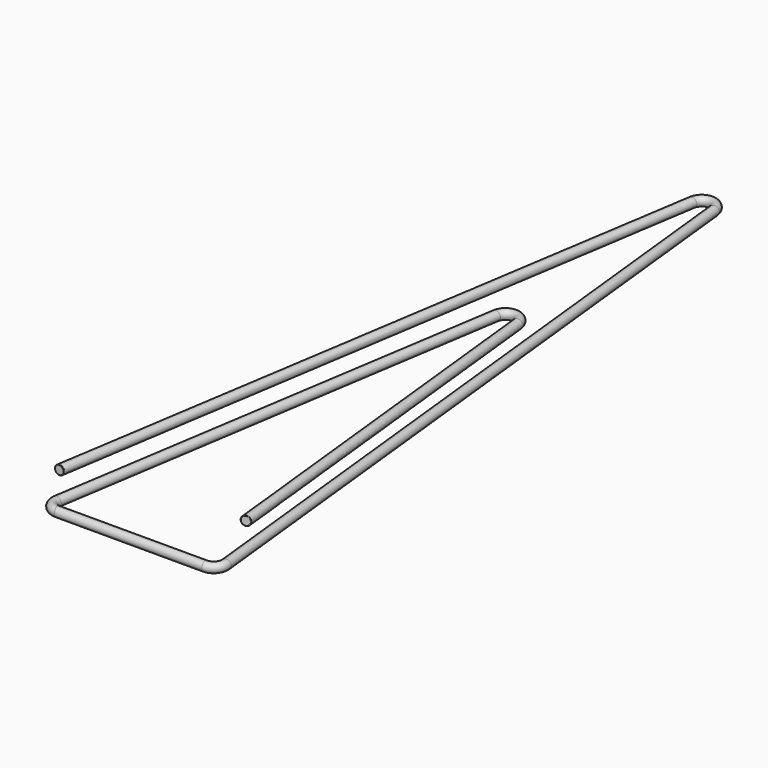
from build123d import *

# Parameters (mm, degrees)
F1_R = 0.2136697361
F3_R = 0.0254


with BuildPart() as f2:
    # F2: sweep along a path in F0
    with BuildLine(Plane.XY) as f2_path:
        Line((0, 0), (4.7073458641, 30.2628274731))
        ThreePointArc((4.7073458641, 30.2628274731), (5.2212019929, 30.692608413), (5.7143777811, 30.2392460641))
        Line((5.7143777811, 30.2392460641), (9.1906647773, -1.977501571))
        ThreePointArc((9.1906647773, -1.977501571), (9.0635841103, -2.3713956379), (8.6855965431, -2.54))
        Line((8.6855965431, -2.54), (1.9426098128, -2.54))
        ThreePointArc((1.9426098128, -2.54), (1.5567804738, -2.3624538109), (1.44064613, -1.953920162))
        Line((1.44064613, -1.953920162), (4.7073458641, 19.0472072916))
        ThreePointArc((4.7073458641, 19.0472072916), (5.2212019929, 19.4769882315), (5.7143777811, 19.0236258826))
        Line((5.7143777811, 19.0236258826), (7.6495107969, 1.0896370958))
    # F1 (on Front) → F2 (sweep)
    with BuildSketch(Plane.XZ):
        Circle(F1_R)
    sweep(path=f2_path.line)

    # F3
    f3_edges = [f2.edges().sort_by_distance(p)[0] for p in [
        (-0.21367, 0, 0),
        (7.8559, 1.144939, 0),
    ]]
    fillet(f3_edges, radius=F3_R)


solid = f2.part
